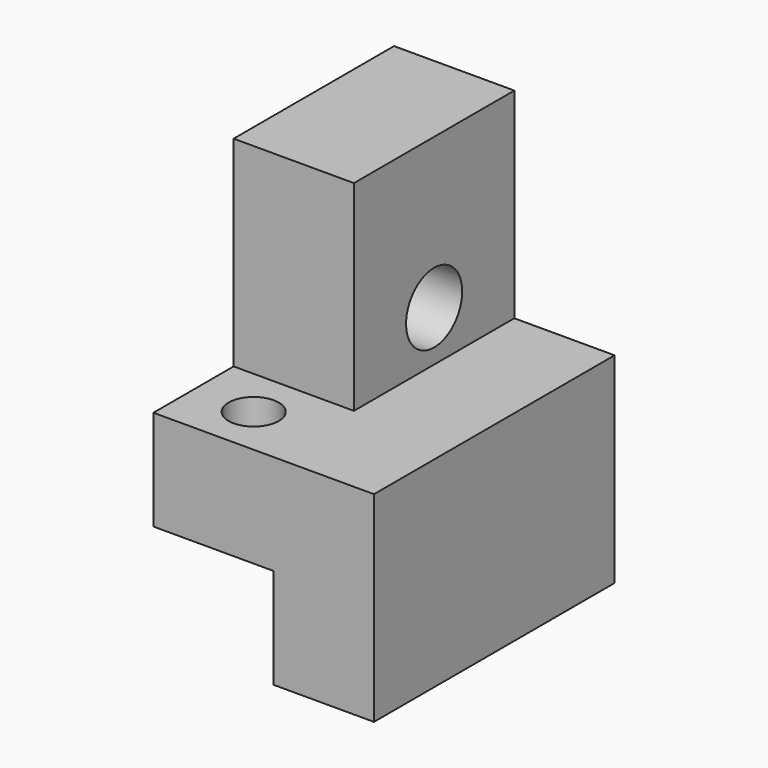
from build123d import *

# Parameters (mm, degrees)
CYLINDER001_R      = 2.5
CYLINDER001_DEPTH  = 10
CYLINDER_R         = 1.25
CYLINDER_DEPTH     = 2
CYLINDER003_R      = 3.5
CYLINDER003_DEPTH  = 20
CYLINDER002_R      = 2
CYLINDER002_DEPTH  = 5
FUSION_PITCH_ANGLE = -90
BOX002_W           = 12
BOX002_H           = 10
BOX002_DEPTH       = 20
BOX001_W           = 10
BOX001_H           = 30
BOX001_DEPTH       = 20
BOX_W              = 12
BOX_H              = 30
BOX_DEPTH          = 30


with BuildPart() as cylinder001:
    # Cylinder001 → Cylinder001 (new body)
    with BuildSketch(Plane(origin=(0, -3, 2), x_dir=(1, 0, 0), z_dir=(0, 0, 1))):
        Circle(CYLINDER001_R)
    extrude(amount=CYLINDER001_DEPTH)


with BuildPart() as fusion002:
    # Cylinder → Cylinder (new body)
    with BuildSketch(Plane(origin=(0, -3, 0), x_dir=(1, 0, 0), z_dir=(0, 0, 1))):
        Circle(CYLINDER_R)
    extrude(amount=CYLINDER_DEPTH)

    # Fusion002: union Cylinder001
    add(cylinder001.part)


with BuildPart() as fusion002_1:
    # Fusion002 placement: moved
    add(fusion002.part.moved(Location((0, -2, 0))))


with BuildPart() as cylinder003:
    # Cylinder003 → Cylinder003 (new body)
    with BuildSketch(Plane(origin=(15, -5, -17), x_dir=(1, 0, 0), z_dir=(0, 0, 1))):
        Circle(CYLINDER003_R)
    extrude(amount=CYLINDER003_DEPTH)


with BuildPart() as cone:
    # Cone → Cone (revolve)
    with BuildSketch(Plane(origin=(15, -5, 5), x_dir=(1, 0, 0), z_dir=(0, 1, 0))):
        Polygon((0, 0), (2, 0), (3.5, 2), (0, 2), align=None)
    revolve(axis=Axis((15, -5, 5), (0, 0, -1)))


with BuildPart() as fusion003:
    # Cylinder002 → Cylinder002 (new body)
    with BuildSketch(Plane(origin=(15, -5, 5), x_dir=(1, 0, 0), z_dir=(0, 0, 1))):
        Circle(CYLINDER002_R)
    extrude(amount=CYLINDER002_DEPTH)

    # Fusion: union Cylinder003, Cone
    add(cylinder003.part)
    add(cone.part)


with BuildPart() as fusion003_1:
    # Fusion pitch: moved
    add(fusion003.part.rotate(Axis((0, 0, 0), (0, 1, 0)), FUSION_PITCH_ANGLE))


with BuildPart() as fusion003_2:
    # Fusion placement: moved
    add(fusion003_1.part.moved(Location((4, 15, 0))))

    # Fusion003: union Fusion002
    add(fusion002_1.part)


with BuildPart() as cube002:
    # Box002 → Box002 (new body)
    with BuildSketch(Plane(origin=(-6, -10, 10), x_dir=(1, 0, 0), z_dir=(0, 0, 1))):
        with Locations((6, 5)):
            Rectangle(BOX002_W, BOX002_H)
    extrude(amount=BOX002_DEPTH)


with BuildPart() as cube001:
    # Box001 → Box001 (new body)
    with BuildSketch(Plane(origin=(6, -10, -10), x_dir=(1, 0, 0), z_dir=(0, 0, 1))):
        with Locations((5, 15)):
            Rectangle(BOX001_W, BOX001_H)
    extrude(amount=BOX001_DEPTH)


with BuildPart() as cut001:
    # Box → Box (new body)
    with BuildSketch(Plane(origin=(-6, -10, 0), x_dir=(1, 0, 0), z_dir=(0, 0, 1))):
        with Locations((6, 15)):
            Rectangle(BOX_W, BOX_H)
    extrude(amount=BOX_DEPTH)

    # Fusion001: union Cube001
    add(cube001.part)

    # Cut: cut Cube002
    add(cube002.part, mode=Mode.SUBTRACT)

    # Cut001: cut Fusion003
    add(fusion003_2.part, mode=Mode.SUBTRACT)


solid = cut001.part
